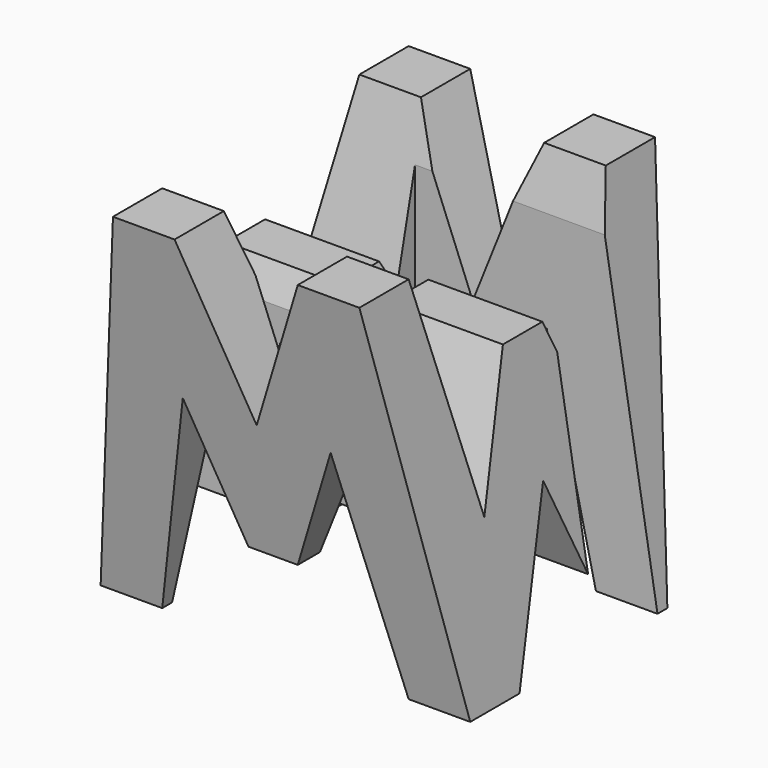
from build123d import *

# Parameters (mm, degrees)
F0_W      = 38.1
F0_H      = 38.1
F1_DEPTH  = 38.1
F6_DEPTH  = 38.1
F8_DEPTH  = 38.1
F9_W      = 24.996
F9_H      = 7.62
F9_W_2    = 25.452001
F10_DEPTH = 38.1


with BuildPart() as f1:
    # F0 (on Front) → F1 (new body)
    with BuildSketch(Plane.XZ):
        with Locations((19.05, 19.05)):
            Rectangle(F0_W, F0_H)
    extrude(amount=F1_DEPTH)

    # F5 (on offset) → F6 (cut)
    with BuildSketch(Plane.YZ.offset(38.1)):
        Polygon((-6.35, 38.1), (-31.75, 38.1), (-26.67, 15.671999), (-21.59, 28.575), (-16.51, 28.575), (-11.43, 16.175999), align=None)
        Polygon((-19.05, 15.875), (-25.4, 0), (-12.7, 0), align=None)
        Polygon((-31.75, 0), (-38.1, 38.1), (-38.1, 0), align=None)
        Polygon((0, 0), (0, 38.1), (-6.35, 0), align=None)
    extrude(amount=-F6_DEPTH, mode=Mode.SUBTRACT)

    # F7 (on offset) → F8 (cut)
    with BuildSketch(Plane.XZ.offset(38.1)):
        Polygon((25.4, 38.1), (12.7, 38.1), (19.05, 22.225), align=None)
        Polygon((0, 38.1), (0, 0), (6.35, 38.1), align=None)
        Polygon((11.43, 22.225), (6.35, 0), (31.75, 0), (26.67, 22.225), (21.59, 9.525), (16.51, 9.525), align=None)
        Polygon((31.75, 38.1), (38.1, 0), (38.1, 38.1), align=None)
    extrude(amount=-F8_DEPTH, mode=Mode.SUBTRACT)

    # F9 (on offset) → F10 (cut)
    with BuildSketch(Plane.XY.offset(38.1)):
        with Locations((25.602, -11.43)):
            Rectangle(F9_W, F9_H)
        with Locations((12.726, -26.67)):
            Rectangle(F9_W_2, F9_H)
    extrude(amount=-F10_DEPTH, mode=Mode.SUBTRACT)


solid = f1.part
